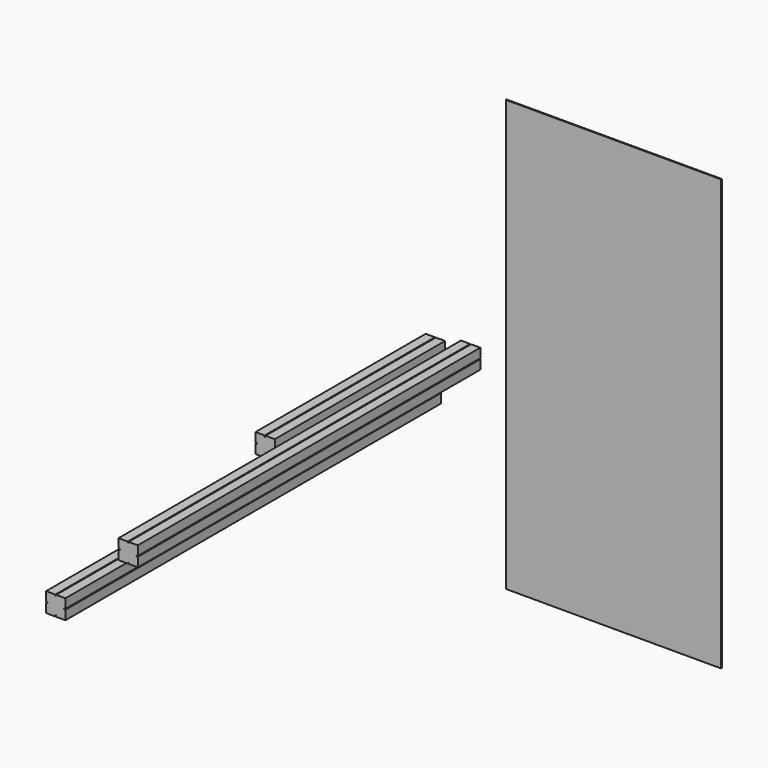
from build123d import *

# Parameters (mm, degrees)
F1_DEPTH = 494
F3_DEPTH = 1090
F4_W     = 500
F4_H     = 1000
F5_DEPTH = 2
F7_DEPTH = 994


with BuildPart() as f1:
    # F0 (on Front) → F1 (new body)
    with BuildSketch(Plane.XZ):
        Polygon((-43.193649, 53.889567), (-64.693649, 53.889567), (-64.693649, 32.389567), (-61.693649, 32.389567), (-61.693649, 31.389567), (-61.693649, 30.389567), (-64.693649, 30.389567), (-64.693649, 8.889567), (-43.193649, 8.889567), (-43.193649, 11.889567), (-42.193649, 11.889567), (-41.193649, 11.889567), (-41.193649, 8.889567), (-19.693649, 8.889567), (-19.693649, 30.389567), (-22.693649, 30.389567), (-22.693649, 31.389567), (-22.693649, 32.389567), (-19.693649, 32.389567), (-19.693649, 53.889567), (-41.193649, 53.889567), (-41.193649, 50.889567), (-42.193649, 50.889567), (-43.193649, 50.889567), align=None)
    extrude(amount=F1_DEPTH)


with BuildPart() as f3:
    # F2 (on Front) → F3 (new body)
    with BuildSketch(Plane.XZ):
        Polygon((-52.669517, -32.202289), (-74.169517, -32.202289), (-74.169517, -53.702289), (-71.169517, -53.702289), (-71.169517, -54.702289), (-71.169517, -55.702289), (-74.169517, -55.702289), (-74.169517, -77.202289), (-52.669517, -77.202289), (-52.669517, -74.202289), (-51.669517, -74.202289), (-50.669517, -74.202289), (-50.669517, -77.202289), (-29.169517, -77.202289), (-29.169517, -55.702289), (-32.169517, -55.702289), (-32.169517, -54.702289), (-32.169517, -53.702289), (-29.169517, -53.702289), (-29.169517, -32.202289), (-50.669517, -32.202289), (-50.669517, -35.202289), (-51.669517, -35.202289), (-52.669517, -35.202289), align=None)
    extrude(amount=F3_DEPTH)


with BuildPart() as f5:
    # F4 (on Front) → F5 (new body)
    with BuildSketch(Plane.XZ):
        with Locations((373.396269, 94.122896)):
            Rectangle(F4_W, F4_H)
    extrude(amount=F5_DEPTH)


with BuildPart() as f7:
    # F6 (on Front) → F7 (new body)
    with BuildSketch(Plane.XZ):
        Polygon((38.80347, 66.835272), (17.30347, 66.835272), (17.30347, 45.335272), (20.30347, 45.335272), (20.30347, 44.335272), (20.30347, 43.335272), (17.30347, 43.335272), (17.30347, 21.835272), (38.80347, 21.835272), (38.80347, 24.835272), (39.80347, 24.835272), (40.80347, 24.835272), (40.80347, 21.835272), (62.30347, 21.835272), (62.30347, 43.335272), (59.30347, 43.335272), (59.30347, 44.335272), (59.30347, 45.335272), (62.30347, 45.335272), (62.30347, 66.835272), (40.80347, 66.835272), (40.80347, 63.835272), (39.80347, 63.835272), (38.80347, 63.835272), align=None)
    extrude(amount=F7_DEPTH)


solid = Compound([f1.part, f3.part, f5.part, f7.part])
